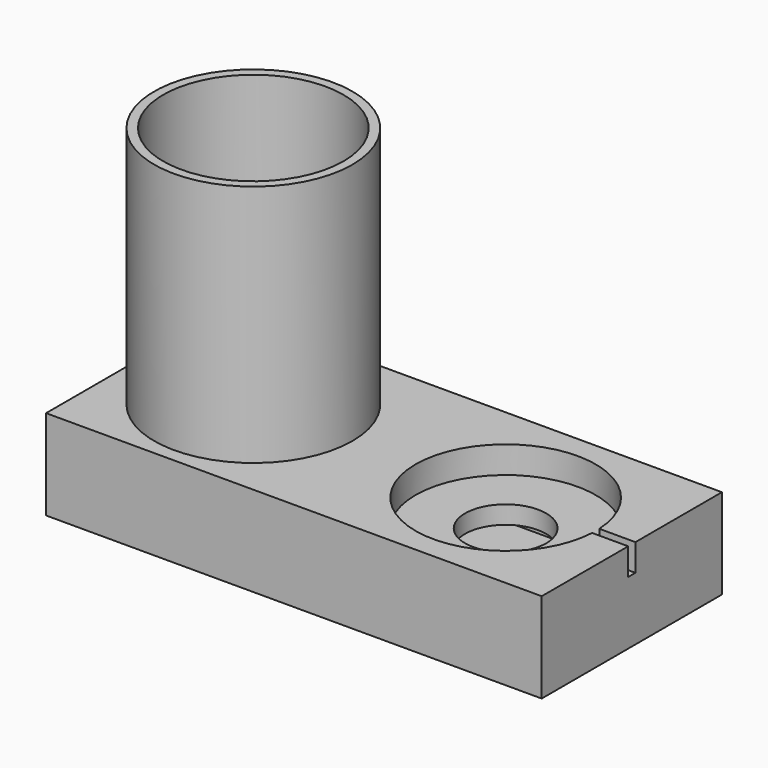
from build123d import *

# Parameters (mm, degrees)
F0_R          = 11
F0_R_2        = 10
F0_R_3        = 4.5
F1_DEPTH      = 3
F1_DEPTH_BACK = 7
F2_DEPTH      = 3
F3_DEPTH      = 6
F5_DEPTH      = 32.5
F6_DEPTH      = 30


with BuildPart() as f1:
    # F0 (on Top) → F1 (new body, two sides)
    with BuildSketch(Plane.XY) as f1_sk:
        with BuildLine():
            ThreePointArc((37.9874921777, -0.5), (18, 0), (37.9874921777, 0.5))
            Line((37.9874921777, 0.5), (42, 0.5))
            Line((42, 0.5), (42, 12.5))
            Line((42, 12.5), (-13, 12.5))
            Line((-13, 12.5), (-13, -12.5))
            Line((-13, -12.5), (42, -12.5))
            Line((42, -12.5), (42, -0.5))
            Line((42, -0.5), (37.9874921777, -0.5))
        make_face()
        Circle(F0_R, mode=Mode.SUBTRACT)
        with BuildLine():
            ThreePointArc((37.9874921777, -0.5), (18, 0), (37.9874921777, 0.5))
            Line((37.9874921777, 0.5), (42, 0.5))
            Line((42, 0.5), (42, 12.5))
            Line((42, 12.5), (-13, 12.5))
            Line((-13, 12.5), (-13, -12.5))
            Line((-13, -12.5), (42, -12.5))
            Line((42, -12.5), (42, -0.5))
            Line((42, -0.5), (37.9874921777, -0.5))
        make_face()
        Circle(F0_R, mode=Mode.SUBTRACT)
        Circle(F0_R)
        Circle(F0_R_2, mode=Mode.SUBTRACT)
        with BuildLine():
            ThreePointArc((37.9874921777, -0.5), (37.9968725554, -0.2500782106), (38, 0))
            ThreePointArc((38, 0), (37.9968725554, 0.2500782106), (37.9874921777, 0.5))
            ThreePointArc((37.9874921777, 0.5), (18, 0), (37.9874921777, -0.5))
        make_face()
        with Locations((28, 0)):
            Circle(F0_R_3, mode=Mode.SUBTRACT)
        Circle(F0_R_2)
        with Locations((28, 0)):
            Circle(F0_R_3)
        with BuildLine():
            ThreePointArc((37.9874921777, 0.5), (37.9968725554, 0.2500782106), (38, 0))
            Line((38, 0), (42, 0))
            Line((42, 0), (42, 0.5))
            Line((42, 0.5), (37.9874921777, 0.5))
        make_face()
        with BuildLine():
            Line((42, 0), (38, 0))
            ThreePointArc((38, 0), (37.9968725554, -0.2500782106), (37.9874921777, -0.5))
            Line((37.9874921777, -0.5), (42, -0.5))
            Line((42, -0.5), (42, 0))
        make_face()
    extrude(amount=F1_DEPTH)
    extrude(f1_sk.sketch, amount=-F1_DEPTH_BACK)

    # F0 (on Top) → F2 (cut)
    with BuildSketch(Plane.XY):
        Circle(F0_R_2)
        with BuildLine():
            ThreePointArc((37.9874921777, -0.5), (37.9968725554, -0.2500782106), (38, 0))
            ThreePointArc((38, 0), (37.9968725554, 0.2500782106), (37.9874921777, 0.5))
            ThreePointArc((37.9874921777, 0.5), (18, 0), (37.9874921777, -0.5))
        make_face()
        with Locations((28, 0)):
            Circle(F0_R_3, mode=Mode.SUBTRACT)
        with Locations((28, 0)):
            Circle(F0_R_3)
        with BuildLine():
            Line((42, 0), (38, 0))
            ThreePointArc((38, 0), (37.9968725554, -0.2500782106), (37.9874921777, -0.5))
            Line((37.9874921777, -0.5), (42, -0.5))
            Line((42, -0.5), (42, 0))
        make_face()
        with BuildLine():
            ThreePointArc((37.9874921777, 0.5), (37.9968725554, 0.2500782106), (38, 0))
            Line((38, 0), (42, 0))
            Line((42, 0), (42, 0.5))
            Line((42, 0.5), (37.9874921777, 0.5))
        make_face()
    extrude(amount=F2_DEPTH, mode=Mode.SUBTRACT)

    # F0 (on Top) → F3 (cut)
    with BuildSketch(Plane.XY):
        with Locations((28, 0)):
            Circle(F0_R_3)
        Circle(F0_R_2)
    extrude(amount=-F3_DEPTH, mode=Mode.SUBTRACT)

    # F4 (on Right) → F5 (cut)
    with BuildSketch(Plane.YZ):
        Polygon((10, -5), (10, -2), (-10, -2), (-10, -6), (10, -6), align=None)
    extrude(amount=F5_DEPTH, mode=Mode.SUBTRACT)

    # F0 (on Top) → F6 (join)
    with BuildSketch(Plane.XY):
        Circle(F0_R)
        Circle(F0_R_2, mode=Mode.SUBTRACT)
    extrude(amount=F6_DEPTH)


solid = f1.part
